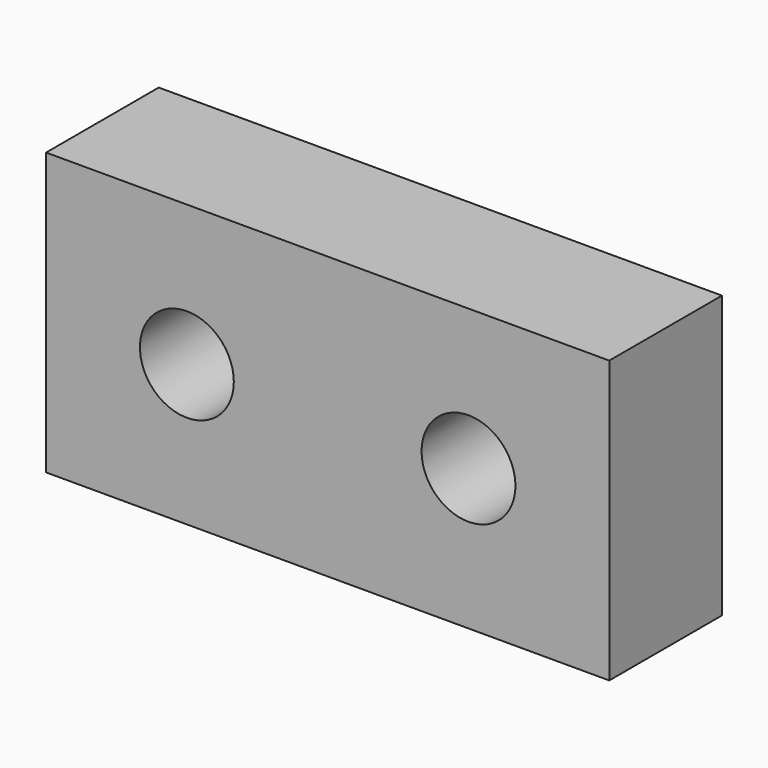
from build123d import *

# Parameters (mm, degrees)
F0_W     = 152.4
F0_H     = 76.2
F0_R     = 12.7
F1_DEPTH = 38.1


with BuildPart() as f1:
    # F0 (on Front) → F1 (new body)
    with BuildSketch(Plane.XZ):
        Rectangle(F0_W, F0_H)
        with Locations((-38.1, 0)):
            Circle(F0_R, mode=Mode.SUBTRACT)
        with BuildLine():
            ThreePointArc((50.8, 0), (38.1, -12.7), (25.4, 0))
            ThreePointArc((25.4, 0), (38.1, 12.7), (50.8, 0))
        make_face(mode=Mode.SUBTRACT)
    extrude(amount=F1_DEPTH)


solid = f1.part
